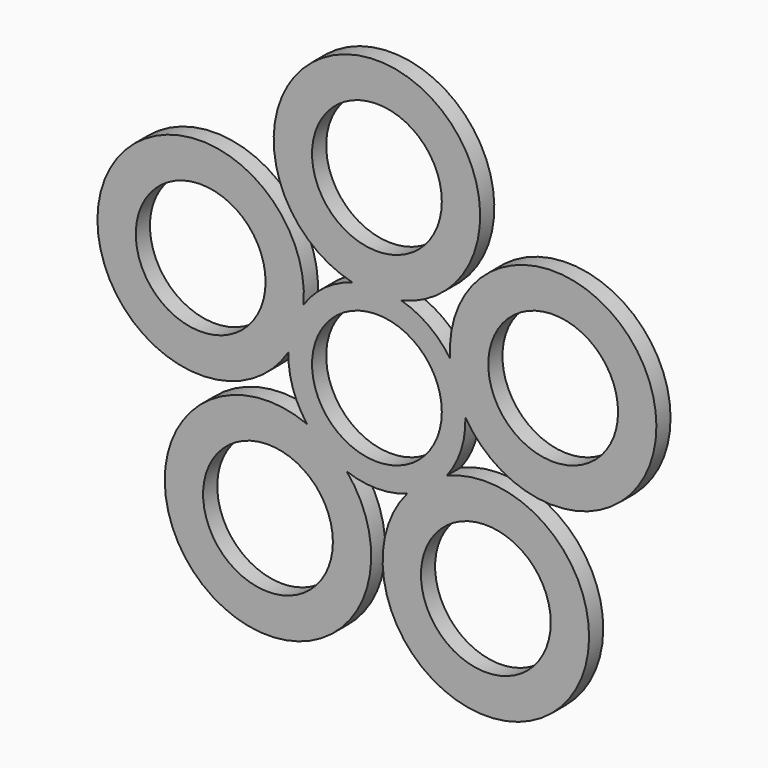
from build123d import *

# Parameters (mm, degrees)
F0_R     = 11
F1_DEPTH = 3


with BuildPart() as f1:
    # F0 (on Front) → F1 (new body)
    with BuildSketch(Plane.XZ):
        with BuildLine():
            ThreePointArc((4.147533, 14.415199), (0, 48.91661), (-4.147533, 14.415199))
            ThreePointArc((-4.147533, 14.415199), (-8.816779, 12.135255), (-12.428011, 8.39908))
            ThreePointArc((-12.428011, 8.39908), (-46.522461, 15.116064), (-14.991327, 0.510003))
            ThreePointArc((-14.991327, 0.510003), (-14.265848, -4.635255), (-11.828466, -9.224282))
            ThreePointArc((-11.828466, -9.224282), (-28.752462, -39.574369), (-5.117616, -14.1))
            ThreePointArc((-5.117616, -14.1), (0, -15), (5.117616, -14.1))
            ThreePointArc((5.117616, -14.1), (28.752462, -39.574369), (11.828466, -9.224282))
            ThreePointArc((11.828466, -9.224282), (14.265848, -4.635255), (14.991327, 0.510003))
            ThreePointArc((14.991327, 0.510003), (46.522461, 15.116064), (12.428011, 8.39908))
            ThreePointArc((12.428011, 8.39908), (8.816779, 12.135255), (4.147533, 14.415199))
        make_face()
        with Locations((-18.46622, -25.416571)):
            Circle(F0_R, mode=Mode.SUBTRACT)
        Circle(F0_R, mode=Mode.SUBTRACT)
        with Locations((18.46622, -25.416571)):
            Circle(F0_R, mode=Mode.SUBTRACT)
        with Locations((-29.878972, 9.708266)):
            Circle(F0_R, mode=Mode.SUBTRACT)
        with Locations((0, 31.41661)):
            Circle(F0_R, mode=Mode.SUBTRACT)
        with Locations((29.878972, 9.708266)):
            Circle(F0_R, mode=Mode.SUBTRACT)
    extrude(amount=F1_DEPTH)


solid = f1.part
